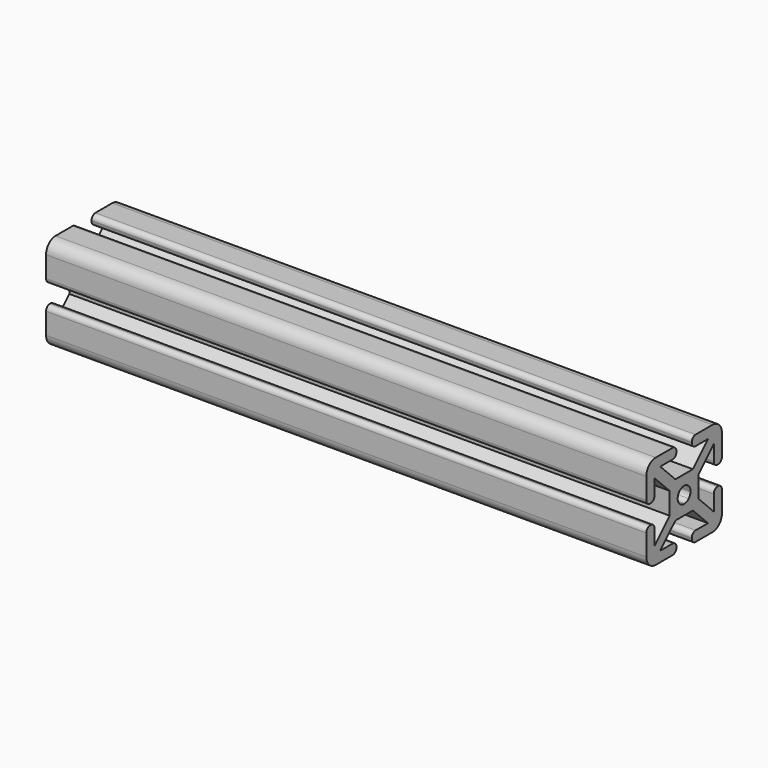
from build123d import *

# Parameters (mm, degrees)
F1_DEPTH = 254
F2_R     = 2
F3_R     = 5


with BuildPart() as f1:
    # F0 (on Right) → F1 (new body)
    with BuildSketch(Plane.YZ):
        Polygon((-11.62, 7.9759603159), (-15.94, 12.2959603159), (-15.94, -0.5893383893), (-11.62, -0.5893383893), align=None)
        Polygon((-11.62, 11.0306616107), (-15.94, 15.3506616107), (-15.94, 12.2959603159), (-11.62, 7.9759603159), (-8.7938307864, 5.1497911023), (-7.266480139, 6.6771417497), align=None)
        Polygon((-8.5652987053, 11.0306616107), (-11.62, 11.0306616107), (-7.266480139, 6.6771417497), (-5.7391294917, 8.2044923971), align=None)
        Polygon((0, 15.3506616107), (-12.8852987053, 15.3506616107), (-8.5652987053, 11.0306616107), (0, 11.0306616107), align=None)
        Polygon((-12.8852987053, 15.3506616107), (-15.94, 15.3506616107), (-11.62, 11.0306616107), (-8.5652987053, 11.0306616107), align=None)
        Polygon((-15.94, -21.5946370946), (-11.62, -17.2746370946), (-11.62, -8.7093383893), (-15.94, -8.7093383893), align=None)
        Polygon((-3.625, -12.3343383893), (-3.625, -9.2796370946), (-11.62, -17.2746370946), (-15.94, -21.5946370946), (-15.94, -24.6493383893), (-12.8852987053, -24.6493383893), (-8.5652987053, -20.3293383893), (-0.5702987053, -12.3343383893), align=None)
        Polygon((0, -20.3293383893), (-8.5652987053, -20.3293383893), (-12.8852987053, -24.6493383893), (0, -24.6493383893), align=None)
        Polygon((14.9650698751, 9.3104327805), (8.6902987053, 3.0356616107), (11.745, 3.0356616107), (11.745, -0.0190396841), (18.0197711699, 6.2557314858), (19.74, 7.9759603159), (16.6852987053, 11.0306616107), align=None)
        Polygon((21.0052987053, 15.3506616107), (16.6852987053, 11.0306616107), (19.74, 7.9759603159), (24.06, 12.2959603159), (24.06, 15.3506616107), align=None)
        Polygon((24.06, 12.2959603159), (19.74, 7.9759603159), (19.74, -0.5893383893), (24.06, -0.5893383893), align=None)
        Polygon((8.12, 11.0306616107), (16.6852987053, 11.0306616107), (21.0052987053, 15.3506616107), (8.12, 15.3506616107), align=None)
        with BuildLine():
            Line((11.745, -9.2796370946), (11.745, -0.0190396841))
            Line((11.745, -0.0190396841), (7.4440143218, -4.3200253623))
            ThreePointArc((7.4440143218, -4.3200253623), (7.456001229, -4.4844879937), (7.46, -4.6493383893))
            ThreePointArc((7.46, -4.6493383893), (7.456001229, -4.8141887849), (7.4440143218, -4.9786514164))
            Line((7.4440143218, -4.9786514164), (11.745, -9.2796370946))
        make_face()
        with BuildLine():
            Line((3.7306869729, -8.0333527111), (-0.5702987053, -12.3343383893))
            Line((-0.5702987053, -12.3343383893), (8.6902987053, -12.3343383893))
            Line((8.6902987053, -12.3343383893), (4.3893130271, -8.0333527111))
            ThreePointArc((4.3893130271, -8.0333527111), (4.06, -8.0493383893), (3.7306869729, -8.0333527111))
        make_face()
        with BuildLine():
            Line((0.6759856782, -4.3200253623), (-3.625, -0.0190396841))
            Line((-3.625, -0.0190396841), (-3.625, -9.2796370946))
            Line((-3.625, -9.2796370946), (0.6759856782, -4.9786514164))
            ThreePointArc((0.6759856782, -4.9786514164), (0.66, -4.6493383893), (0.6759856782, -4.3200253623))
        make_face()
        with BuildLine():
            Line((8.6902987053, 3.0356616107), (-0.5702987053, 3.0356616107))
            Line((-0.5702987053, 3.0356616107), (3.7306869729, -1.2653240675))
            ThreePointArc((3.7306869729, -1.2653240675), (4.06, -1.2493383893), (4.3893130271, -1.2653240675))
            Line((4.3893130271, -1.2653240675), (8.6902987053, 3.0356616107))
        make_face()
        Polygon((-5.7391294917, 8.2044923971), (-7.266480139, 6.6771417497), (-3.625, 3.0356616107), (-0.5702987053, 3.0356616107), align=None)
        Polygon((-3.625, 3.0356616107), (-7.266480139, 6.6771417497), (-8.7938307864, 5.1497911023), (-3.625, -0.0190396841), align=None)
        Polygon((11.745, -12.3343383893), (8.6902987053, -12.3343383893), (16.6852987053, -20.3293383893), (21.0052987053, -24.6493383893), (24.06, -24.6493383893), align=None)
        Polygon((19.74, -17.2746370946), (11.745, -9.2796370946), (11.745, -12.3343383893), (24.06, -24.6493383893), (24.06, -21.5946370946), align=None)
        Polygon((19.74, -8.7093383893), (19.74, -17.2746370946), (24.06, -21.5946370946), (24.06, -8.7093383893), align=None)
        Polygon((21.0052987053, -24.6493383893), (16.6852987053, -20.3293383893), (8.12, -20.3293383893), (8.12, -24.6493383893), align=None)
        with BuildLine():
            Line((11.745, 3.0356616107), (8.6902987053, 3.0356616107))
            Line((8.6902987053, 3.0356616107), (4.3893130271, -1.2653240675))
            ThreePointArc((4.3893130271, -1.2653240675), (6.464163056, -2.2451753333), (7.4440143218, -4.3200253623))
            Line((7.4440143218, -4.3200253623), (11.745, -0.0190396841))
            Line((11.745, -0.0190396841), (11.745, 3.0356616107))
        make_face()
        with BuildLine():
            Line((1.655836944, -2.2451753333), (-3.625, 3.0356616107))
            Line((-3.625, 3.0356616107), (-3.625, -0.0190396841))
            Line((-3.625, -0.0190396841), (0.6759856782, -4.3200253623))
            ThreePointArc((0.6759856782, -4.3200253623), (0.9855894874, -3.1974430763), (1.655836944, -2.2451753333))
        make_face()
        with BuildLine():
            Line((0.6759856782, -4.9786514164), (-3.625, -9.2796370946))
            Line((-3.625, -9.2796370946), (-3.625, -12.3343383893))
            Line((-3.625, -12.3343383893), (-0.5702987053, -12.3343383893))
            Line((-0.5702987053, -12.3343383893), (3.7306869729, -8.0333527111))
            ThreePointArc((3.7306869729, -8.0333527111), (1.655836944, -7.0535014454), (0.6759856782, -4.9786514164))
        make_face()
        with BuildLine():
            Line((11.745, -12.3343383893), (6.464163056, -7.0535014454))
            ThreePointArc((6.464163056, -7.0535014454), (5.511895313, -7.7237489019), (4.3893130271, -8.0333527111))
            Line((4.3893130271, -8.0333527111), (8.6902987053, -12.3343383893))
            Line((8.6902987053, -12.3343383893), (11.745, -12.3343383893))
        make_face()
        with BuildLine():
            ThreePointArc((7.4440143218, -4.9786514164), (7.1344105126, -6.1012337024), (6.464163056, -7.0535014454))
            Line((6.464163056, -7.0535014454), (11.745, -12.3343383893))
            Line((11.745, -12.3343383893), (11.745, -9.2796370946))
            Line((11.745, -9.2796370946), (7.4440143218, -4.9786514164))
        make_face()
        with BuildLine():
            Line((-0.5702987053, 3.0356616107), (-3.625, 3.0356616107))
            Line((-3.625, 3.0356616107), (1.655836944, -2.2451753333))
            ThreePointArc((1.655836944, -2.2451753333), (2.608104687, -1.5749278767), (3.7306869729, -1.2653240675))
            Line((3.7306869729, -1.2653240675), (-0.5702987053, 3.0356616107))
        make_face()
    extrude(amount=F1_DEPTH)

    # F2
    f2_edges = [f1.edges().sort_by_distance(p)[0] for p in [
        (127, 0, 11.030662),
        (127, -11.62, -0.589338),
        (127, -15.94, -0.589338),
        (127, 0, 15.350662),
        (127, 8.12, 11.030662),
        (127, 19.74, -0.589338),
        (127, 24.06, -0.589338),
        (127, 8.12, -24.649338),
        (127, 8.12, 15.350662),
        (127, -15.94, -8.709338),
        (127, -11.62, -8.709338),
        (127, 0, -24.649338),
        (127, 0, -20.329338),
        (127, 8.12, -20.329338),
        (127, 19.74, -8.709338),
        (127, 24.06, -8.709338),
    ]]
    fillet(f2_edges, radius=F2_R)

    # F3
    f3_edges = [f1.edges().sort_by_distance(p)[0] for p in [
        (127, -15.94, 15.350662),
        (127, 24.06, 15.350662),
        (127, 24.06, -24.649338),
        (127, -15.94, -24.649338),
    ]]
    fillet(f3_edges, radius=F3_R)


solid = f1.part
